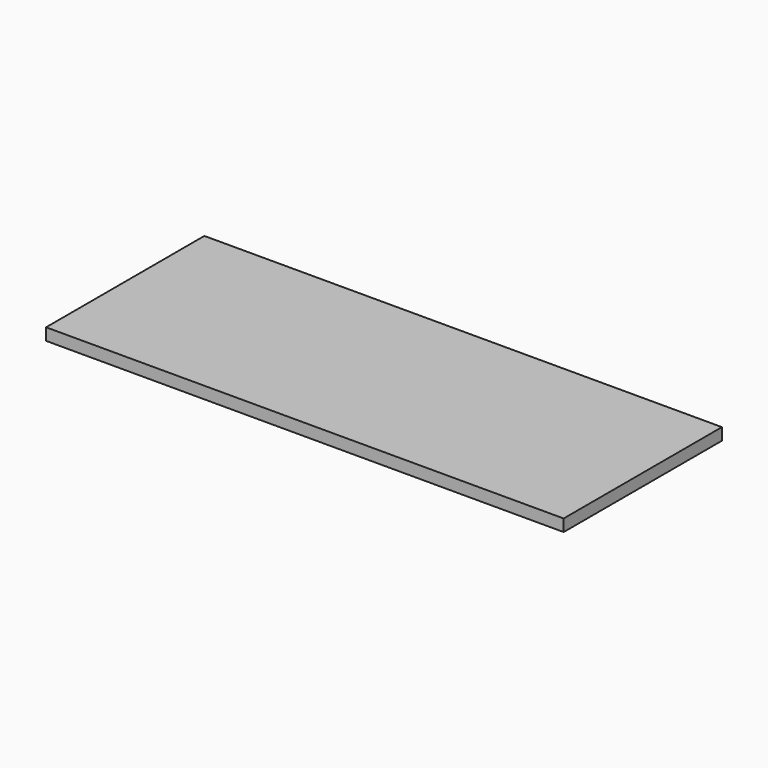
from build123d import *

# Parameters (mm, degrees)
SKETCH_W  = 129.5
SKETCH_H  = 49.5
PAD_DEPTH = 3


with BuildPart() as part:
    # Sketch → Pad (new body)
    with BuildSketch(Plane.XY):
        with Locations((64.75, 24.75)):
            Rectangle(SKETCH_W, SKETCH_H)
    extrude(amount=PAD_DEPTH)


solid = part.part
